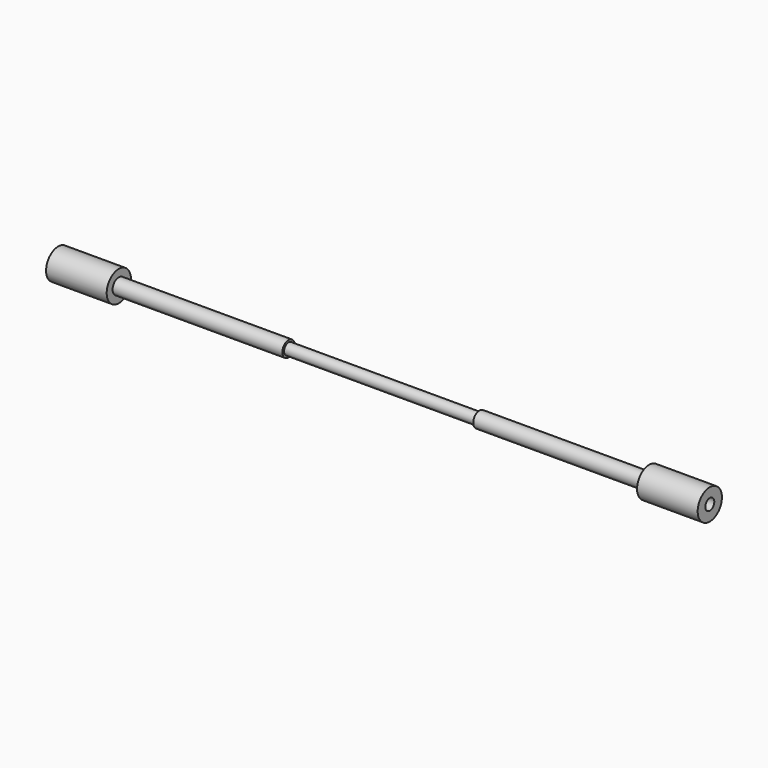
from build123d import *

# Parameters (mm, degrees)
F0_R      = 2.3622
F1_DEPTH  = 105.39984
F3_R      = 3.2512
F4_DEPTH  = 96.52508
F6_R      = 3.2512
F7_DEPTH  = 96.52508
F8_R      = 6.35
F8_R_2    = 3.2512
F9_DEPTH  = 25.4
F10_R     = 2.3622
F11_DEPTH = 50.8
F12_R     = 6.35
F12_R_2   = 3.2512
F13_DEPTH = 25.4
F14_R     = 2.3622
F15_DEPTH = 50.8


with BuildPart() as f1:
    # F0 (on Right) → F1 (new body)
    with BuildSketch(Plane.YZ):
        Circle(F0_R)
    extrude(amount=F1_DEPTH)

    # F3 (on offset) → F4 (join)
    with BuildSketch(Plane.YZ.offset(12.7)):
        Circle(F3_R)
    extrude(amount=-F4_DEPTH)

    # F6 (on offset) → F7 (join)
    with BuildSketch(Plane.YZ.offset(92.69984)):
        Circle(F6_R)
    extrude(amount=F7_DEPTH)

    # F8 (on face) → F9 (join)
    with BuildSketch(Plane(origin=(-83.82508, 0, 0), x_dir=(0, -1, 0), z_dir=(-1, 0, 0))):
        Circle(F8_R)
        Circle(F8_R_2, mode=Mode.SUBTRACT)
    extrude(amount=-F9_DEPTH)

    # F10 (on face) → F11 (cut)
    with BuildSketch(Plane(origin=(-83.82508, 0, 0), x_dir=(0, -1, 0), z_dir=(-1, 0, 0))):
        Circle(F10_R)
    extrude(amount=-F11_DEPTH, mode=Mode.SUBTRACT)

    # F12 (on face) → F13 (join)
    with BuildSketch(Plane.YZ.offset(189.22492)):
        Circle(F12_R)
        Circle(F12_R_2, mode=Mode.SUBTRACT)
    extrude(amount=-F13_DEPTH)

    # F14 (on face) → F15 (cut)
    with BuildSketch(Plane.YZ.offset(189.22492)):
        Circle(F14_R)
    extrude(amount=-F15_DEPTH, mode=Mode.SUBTRACT)


solid = f1.part
